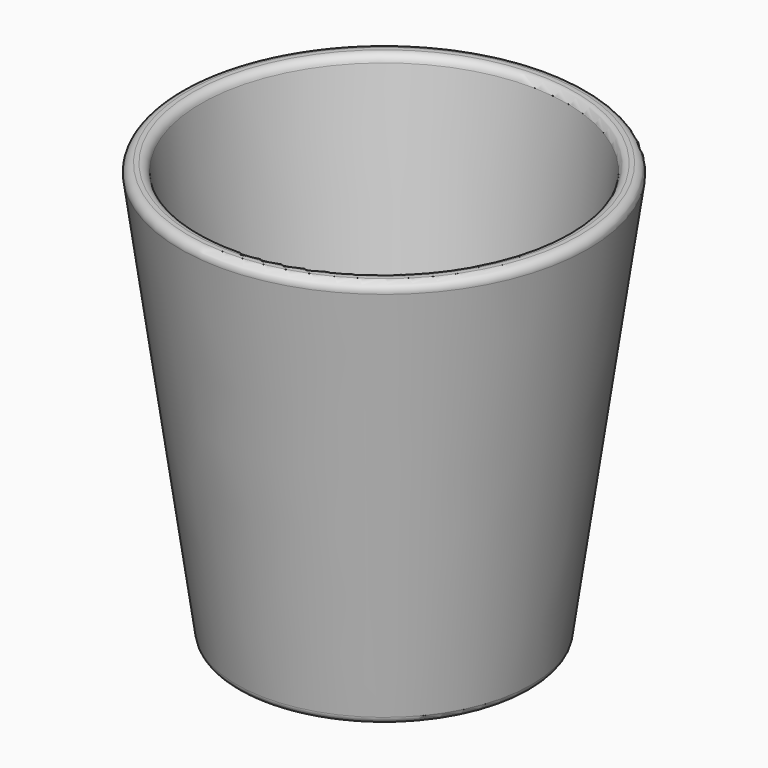
from build123d import *

# Parameters (mm, degrees)
F0_R     = 35
F1_DEPTH = 100
F1_TAPER = -8
F2_T     = -5
F3_R     = 2


with BuildPart() as f1:
    # F0 (on Top) → F1 (new body)
    with BuildSketch(Plane.XY):
        Circle(F0_R)
    extrude(amount=F1_DEPTH, taper=F1_TAPER)

    # F2
    f2_openings = [f1.faces().sort_by_distance(p)[0] for p in [
        (0, 0, 100),
    ]]
    offset(amount=F2_T, openings=f2_openings, kind=Kind.INTERSECTION)

    # F3
    f3_edges = [f1.edges().sort_by_distance(p)[0] for p in [
        (-49.054083, 0, 100),
        (-44.004946, 0, 100),
        (-35, 0, 0),
    ]]
    fillet(f3_edges, radius=F3_R)


solid = f1.part
